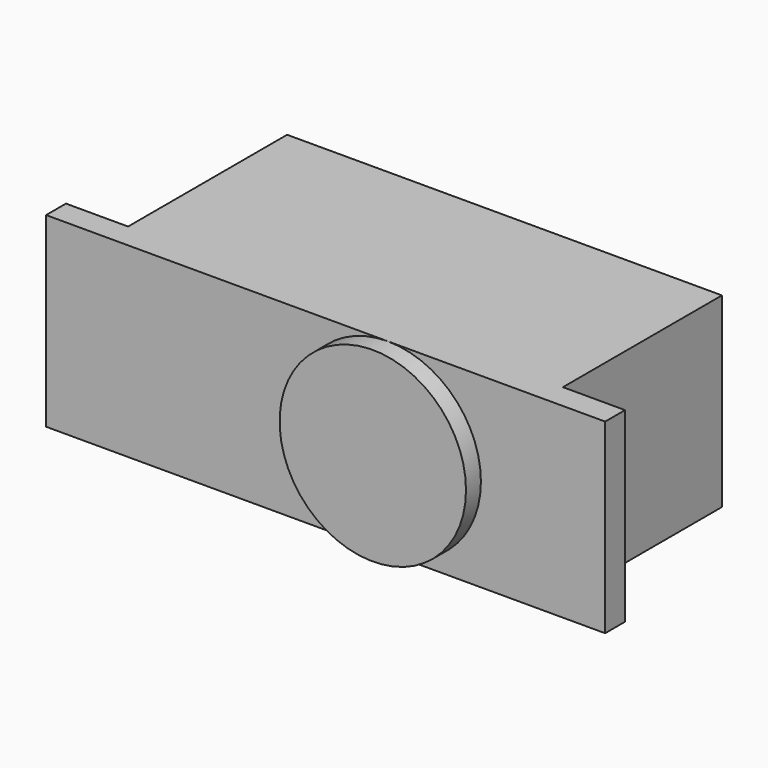
from build123d import *

# Parameters (mm, degrees)
F1_DEPTH = 7.5
F0_W     = 7.5
F0_H     = 1.5


with BuildPart() as f1:
    # F0 (on Top) → F1 (new body, symmetric)
    with BuildSketch(Plane.XY):
        Polygon((-7.5, 4.5), (0, 4.5), (7.5, 4.5), (17.5, 4.5), (17.5, 6.5), (12.5, 6.5), (12.5, 22.5), (-22.5, 22.5), (-22.5, 6.5), (-27.5, 6.5), (-27.5, 4.5), align=None)
    extrude(amount=F1_DEPTH, both=True)

    # F0 (on Top) → F2 (revolve)
    with BuildSketch(Plane.XY):
        with Locations((3.75, 3.75)):
            Rectangle(F0_W, F0_H)
    revolve(axis=Axis((0, 2.25, 0), (0, 1, 0)))


solid = f1.part
